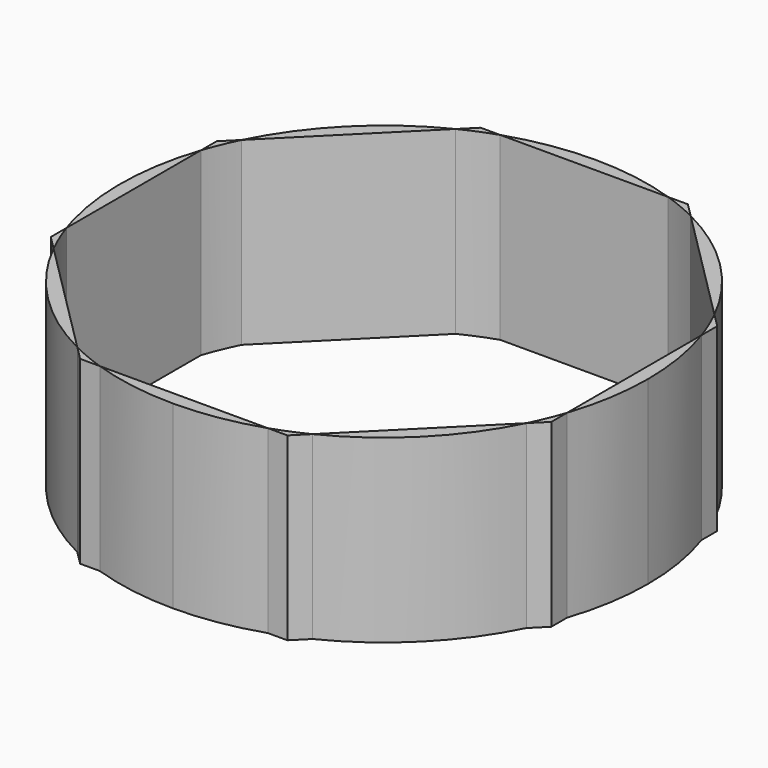
from build123d import *

# Parameters (mm, degrees)
F1_DEPTH = 110.49


with BuildPart() as f1:
    # F0 (on Top) → F1 (new body)
    with BuildSketch(Plane.XY):
        with BuildLine():
            Line((-153.3025612107, 63.5), (-153.3025612107, 51.4361221489))
            ThreePointArc((-153.3025612107, 51.4361221489), (-149.3926343313, 61.8804552587), (-144.7721113748, 72.0304498359))
            Line((-144.7721113748, 72.0304498359), (-153.3025612107, 63.5))
        make_face()
    extrude(amount=F1_DEPTH)


with BuildPart() as f1b:
    # F0 (on Top) → F1, piece 2 (new body)
    with BuildSketch(Plane.XY):
        with BuildLine():
            ThreePointArc((-72.0304498359, 144.7721113748), (-114.340172152, 114.340172152), (-144.7721113748, 72.0304498359))
            Line((-144.7721113748, 72.0304498359), (-72.0304498359, 144.7721113748))
        make_face()
    extrude(amount=F1_DEPTH)


with BuildPart() as f1c:
    # F0 (on Top) → F1, piece 3 (new body)
    with BuildSketch(Plane.XY):
        with BuildLine():
            Line((-63.5, 153.3025612107), (-72.0304498359, 144.7721113748))
            ThreePointArc((-72.0304498359, 144.7721113748), (-61.8804552587, 149.3926343313), (-51.4361221489, 153.3025612107))
            Line((-51.4361221489, 153.3025612107), (-63.5, 153.3025612107))
        make_face()
    extrude(amount=F1_DEPTH)


with BuildPart() as f1d:
    # F0 (on Top) → F1, piece 4 (new body)
    with BuildSketch(Plane.XY):
        with BuildLine():
            ThreePointArc((51.4361221489, 153.3025612107), (0, 161.7014221814), (-51.4361221489, 153.3025612107))
            Line((-51.4361221489, 153.3025612107), (51.4361221489, 153.3025612107))
        make_face()
    extrude(amount=F1_DEPTH)


with BuildPart() as f1e:
    # F0 (on Top) → F1, piece 5 (new body)
    with BuildSketch(Plane.XY):
        with BuildLine():
            Line((63.5, 153.3025612107), (51.4361221489, 153.3025612107))
            ThreePointArc((51.4361221489, 153.3025612107), (61.8804552587, 149.3926343313), (72.0304498359, 144.7721113748))
            Line((72.0304498359, 144.7721113748), (63.5, 153.3025612107))
        make_face()
    extrude(amount=F1_DEPTH)


with BuildPart() as f1f:
    # F0 (on Top) → F1, piece 6 (new body)
    with BuildSketch(Plane.XY):
        with BuildLine():
            ThreePointArc((144.7721113748, 72.0304498359), (114.340172152, 114.340172152), (72.0304498359, 144.7721113748))
            Line((72.0304498359, 144.7721113748), (144.7721113748, 72.0304498359))
        make_face()
    extrude(amount=F1_DEPTH)


with BuildPart() as f1g:
    # F0 (on Top) → F1, piece 7 (new body)
    with BuildSketch(Plane.XY):
        with BuildLine():
            ThreePointArc((144.7721113748, 72.0304498359), (149.3926343313, 61.8804552587), (153.3025612107, 51.4361221489))
            Line((153.3025612107, 51.4361221489), (153.3025612107, 63.5))
            Line((153.3025612107, 63.5), (144.7721113748, 72.0304498359))
        make_face()
    extrude(amount=F1_DEPTH)


with BuildPart() as f1h:
    # F0 (on Top) → F1, piece 8 (new body)
    with BuildSketch(Plane.XY):
        with BuildLine():
            Line((153.3025612107, 51.4361221489), (153.3025612107, -51.4361221489))
            ThreePointArc((153.3025612107, -51.4361221489), (159.5878944458, -26.0586623185), (161.7014221814, 0))
            ThreePointArc((161.7014221814, 0), (159.5878944458, 26.0586623185), (153.3025612107, 51.4361221489))
        make_face()
    extrude(amount=F1_DEPTH)


with BuildPart() as f1i:
    # F0 (on Top) → F1, piece 9 (new body)
    with BuildSketch(Plane.XY):
        with BuildLine():
            ThreePointArc((153.3025612107, -51.4361221489), (149.3926343313, -61.8804552587), (144.7721113748, -72.0304498359))
            Line((144.7721113748, -72.0304498359), (153.3025612107, -63.5))
            Line((153.3025612107, -63.5), (153.3025612107, -51.4361221489))
        make_face()
    extrude(amount=F1_DEPTH)


with BuildPart() as f1j:
    # F0 (on Top) → F1, piece 10 (new body)
    with BuildSketch(Plane.XY):
        with BuildLine():
            Line((144.7721113748, -72.0304498359), (72.0304498359, -144.7721113748))
            ThreePointArc((72.0304498359, -144.7721113748), (114.340172152, -114.340172152), (144.7721113748, -72.0304498359))
        make_face()
    extrude(amount=F1_DEPTH)


with BuildPart() as f1k:
    # F0 (on Top) → F1, piece 11 (new body)
    with BuildSketch(Plane.XY):
        with BuildLine():
            ThreePointArc((72.0304498359, -144.7721113748), (61.8804552587, -149.3926343313), (51.4361221489, -153.3025612107))
            Line((51.4361221489, -153.3025612107), (63.5, -153.3025612107))
            Line((63.5, -153.3025612107), (72.0304498359, -144.7721113748))
        make_face()
    extrude(amount=F1_DEPTH)


with BuildPart() as f1l:
    # F0 (on Top) → F1, piece 12 (new body)
    with BuildSketch(Plane.XY):
        with BuildLine():
            Line((51.4361221489, -153.3025612107), (-51.4361221489, -153.3025612107))
            ThreePointArc((-51.4361221489, -153.3025612107), (-26.0586623185, -159.5878944458), (0, -161.7014221814))
            ThreePointArc((0, -161.7014221814), (26.0586623185, -159.5878944458), (51.4361221489, -153.3025612107))
        make_face()
    extrude(amount=F1_DEPTH)


with BuildPart() as f1m:
    # F0 (on Top) → F1, piece 13 (new body)
    with BuildSketch(Plane.XY):
        with BuildLine():
            ThreePointArc((-51.4361221489, -153.3025612107), (-61.8804552587, -149.3926343313), (-72.0304498359, -144.7721113748))
            Line((-72.0304498359, -144.7721113748), (-63.5, -153.3025612107))
            Line((-63.5, -153.3025612107), (-51.4361221489, -153.3025612107))
        make_face()
    extrude(amount=F1_DEPTH)


with BuildPart() as f1n:
    # F0 (on Top) → F1, piece 14 (new body)
    with BuildSketch(Plane.XY):
        with BuildLine():
            Line((-72.0304498359, -144.7721113748), (-144.7721113748, -72.0304498359))
            ThreePointArc((-144.7721113748, -72.0304498359), (-114.340172152, -114.340172152), (-72.0304498359, -144.7721113748))
        make_face()
    extrude(amount=F1_DEPTH)


with BuildPart() as f1o:
    # F0 (on Top) → F1, piece 15 (new body)
    with BuildSketch(Plane.XY):
        with BuildLine():
            Line((-153.3025612107, -51.4361221489), (-153.3025612107, -63.5))
            Line((-153.3025612107, -63.5), (-144.7721113748, -72.0304498359))
            ThreePointArc((-144.7721113748, -72.0304498359), (-149.3926343313, -61.8804552587), (-153.3025612107, -51.4361221489))
        make_face()
    extrude(amount=F1_DEPTH)


with BuildPart() as f1p:
    # F0 (on Top) → F1, piece 16 (new body)
    with BuildSketch(Plane.XY):
        with BuildLine():
            ThreePointArc((-153.3025612107, 51.4361221489), (-161.636485876, 4.5821795193), (-155.9703063402, -42.6686474547))
            Line((-155.9703063402, -42.6686474547), (-153.3025612107, -41.9388349725))
            Line((-153.3025612107, -41.9388349725), (-153.3025612107, 51.4361221489))
        make_face()
        with BuildLine():
            ThreePointArc((-155.9703063402, -42.6686474547), (-154.6985578599, -47.0712877618), (-153.3025612107, -51.4361221489))
            Line((-153.3025612107, -51.4361221489), (-153.3025612107, -43.18))
            Line((-153.3025612107, -43.18), (-153.3025612107, -41.9388349725))
            Line((-153.3025612107, -41.9388349725), (-155.9703063402, -42.6686474547))
        make_face()
    extrude(amount=F1_DEPTH)


solid = Compound([f1.part, f1b.part, f1c.part, f1d.part, f1e.part, f1f.part, f1g.part, f1h.part, f1i.part, f1j.part, f1k.part, f1l.part, f1m.part, f1n.part, f1o.part, f1p.part])
